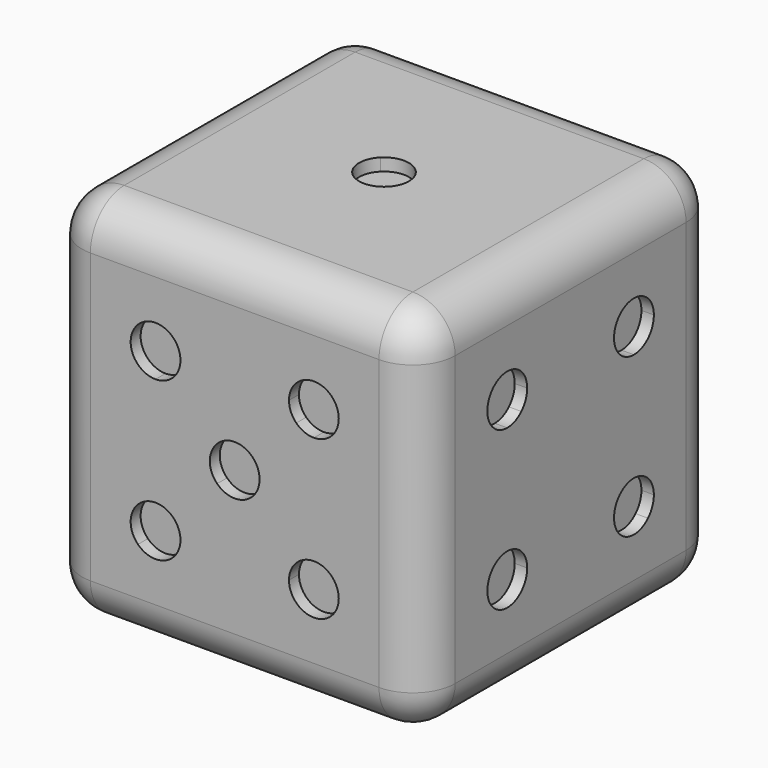
from build123d import *

# Parameters (mm, degrees)
F0_W      = 15
F0_H      = 15
F1_DEPTH  = 15
F2_R      = 1.7
F4_R      = 1
F9_DEPTH  = 0.5
F10_DEPTH = 0.5
F11_DEPTH = 0.5
F12_DEPTH = 0.5
F13_DEPTH = 0.5
F14_DEPTH = 0.5


with BuildPart() as f1:
    # F0 (on Front) → F1 (new body)
    with BuildSketch(Plane.XZ):
        Rectangle(F0_W, F0_H)
    extrude(amount=F1_DEPTH)

    # F2
    f2_edges = [f1.edges().sort_by_distance(p)[0] for p in [
        (-7.5, -7.5, -7.5),
        (0, 0, -7.5),
        (-7.5, 0, 0),
        (0, -15, -7.5),
        (7.5, -7.5, -7.5),
        (7.5, -15, 0),
        (-7.5, -15, 0),
        (7.5, -7.5, 7.5),
        (-7.5, -7.5, 7.5),
        (0, 0, 7.5),
        (0, -15, 7.5),
        (7.5, 0, 0),
    ]]
    fillet(f2_edges, radius=F2_R)

    # F4 (on face) → F9 (cut)
    with BuildSketch(Plane(origin=(0, 0, -7.5), x_dir=(1, 0, 0), z_dir=(0, 0, -1))):
        with Locations((-3.1819805153, 4.3180194847)):
            Circle(F4_R)
        with Locations((0, 4.3180194847)):
            Circle(F4_R)
        with Locations((3.1819805153, 4.3180194847)):
            Circle(F4_R)
        with Locations((3.1819805153, 10.6819805153)):
            Circle(F4_R)
        with Locations((-3.1819805153, 10.6819805153)):
            Circle(F4_R)
        with Locations((0, 10.6819805153)):
            Circle(F4_R)
    extrude(amount=-F9_DEPTH, mode=Mode.SUBTRACT)

    # F5 (on face) → F10 (cut)
    with BuildSketch(Plane.XZ.offset(15)):
        with BuildLine():
            Line((-3.1819805153, -3.1819805153), (-3.8890872965, -3.8890872965))
            ThreePointArc((-3.8890872965, -3.8890872965), (-2.799297083, -4.1058600479), (-2.1819805153, -3.1819805153))
            Line((-2.1819805153, -3.1819805153), (-3.1819805153, -3.1819805153))
        make_face()
        with BuildLine():
            ThreePointArc((-3.1819805153, -2.1819805153), (-4.1058600479, -2.799297083), (-3.8890872965, -3.8890872965))
            Line((-3.8890872965, -3.8890872965), (-3.1819805153, -3.1819805153))
            Line((-3.1819805153, -3.1819805153), (-3.1819805153, -2.1819805153))
        make_face()
        with BuildLine():
            Line((-3.1819805153, -2.1819805153), (-3.1819805153, -3.1819805153))
            Line((-3.1819805153, -3.1819805153), (-2.4748737342, -2.4748737342))
            ThreePointArc((-2.4748737342, -2.4748737342), (-2.799297083, -2.2581009828), (-3.1819805153, -2.1819805153))
        make_face()
        with BuildLine():
            Line((-3.1819805153, -3.1819805153), (-2.1819805153, -3.1819805153))
            ThreePointArc((-2.1819805153, -3.1819805153), (-2.2581009828, -2.799297083), (-2.4748737342, -2.4748737342))
            Line((-2.4748737342, -2.4748737342), (-3.1819805153, -3.1819805153))
        make_face()
        with BuildLine():
            Line((-2.4748737342, 2.4748737342), (-3.1819805153, 3.1819805153))
            Line((-3.1819805153, 3.1819805153), (-3.1819805153, 2.1819805153))
            ThreePointArc((-3.1819805153, 2.1819805153), (-2.799297083, 2.2581009828), (-2.4748737342, 2.4748737342))
        make_face()
        with BuildLine():
            ThreePointArc((-2.1819805153, 3.1819805153), (-2.799297083, 4.1058600479), (-3.8890872965, 3.8890872965))
            Line((-3.8890872965, 3.8890872965), (-3.1819805153, 3.1819805153))
            Line((-3.1819805153, 3.1819805153), (-2.1819805153, 3.1819805153))
        make_face()
        with BuildLine():
            Line((-3.1819805153, 3.1819805153), (-3.8890872965, 3.8890872965))
            ThreePointArc((-3.8890872965, 3.8890872965), (-4.1058600479, 2.799297083), (-3.1819805153, 2.1819805153))
            Line((-3.1819805153, 2.1819805153), (-3.1819805153, 3.1819805153))
        make_face()
        with BuildLine():
            Line((-2.1819805153, 3.1819805153), (-3.1819805153, 3.1819805153))
            Line((-3.1819805153, 3.1819805153), (-2.4748737342, 2.4748737342))
            ThreePointArc((-2.4748737342, 2.4748737342), (-2.2581009828, 2.799297083), (-2.1819805153, 3.1819805153))
        make_face()
        with BuildLine():
            Line((3.1819805153, 3.1819805153), (3.8890872965, 3.8890872965))
            ThreePointArc((3.8890872965, 3.8890872965), (2.799297083, 4.1058600479), (2.1819805153, 3.1819805153))
            Line((2.1819805153, 3.1819805153), (3.1819805153, 3.1819805153))
        make_face()
        with BuildLine():
            ThreePointArc((4.1819805153, 3.1819805153), (4.1058600479, 3.5646639477), (3.8890872965, 3.8890872965))
            Line((3.8890872965, 3.8890872965), (3.1819805153, 3.1819805153))
            Line((3.1819805153, 3.1819805153), (3.1819805153, 2.1819805153))
            ThreePointArc((3.1819805153, 2.1819805153), (3.8890872965, 2.4748737342), (4.1819805153, 3.1819805153))
        make_face()
        with BuildLine():
            Line((3.1819805153, 2.1819805153), (3.1819805153, 3.1819805153))
            Line((3.1819805153, 3.1819805153), (2.4748737342, 2.4748737342))
            ThreePointArc((2.4748737342, 2.4748737342), (2.799297083, 2.2581009828), (3.1819805153, 2.1819805153))
        make_face()
        with BuildLine():
            Line((2.4748737342, 2.4748737342), (3.1819805153, 3.1819805153))
            Line((3.1819805153, 3.1819805153), (2.1819805153, 3.1819805153))
            ThreePointArc((2.1819805153, 3.1819805153), (2.2581009828, 2.799297083), (2.4748737342, 2.4748737342))
        make_face()
        with BuildLine():
            Line((-0.7071067812, -0.7071067812), (0, 0))
            Line((0, 0), (-0.7071067812, 0.7071067812))
            ThreePointArc((-0.7071067812, 0.7071067812), (-1, 0), (-0.7071067812, -0.7071067812))
        make_face()
        with BuildLine():
            ThreePointArc((-0.7071067812, -0.7071067812), (0, -1), (0.7071067812, -0.7071067812))
            Line((0.7071067812, -0.7071067812), (0, 0))
            Line((0, 0), (-0.7071067812, -0.7071067812))
        make_face()
        with BuildLine():
            Line((0, 0), (0.7071067812, -0.7071067812))
            ThreePointArc((0.7071067812, -0.7071067812), (0.9238795325, -0.3826834324), (1, 0))
            ThreePointArc((1, 0), (0.9238795325, 0.3826834324), (0.7071067812, 0.7071067812))
            Line((0.7071067812, 0.7071067812), (0, 0))
        make_face()
        with BuildLine():
            Line((-0.7071067812, 0.7071067812), (0, 0))
            Line((0, 0), (0.7071067812, 0.7071067812))
            ThreePointArc((0.7071067812, 0.7071067812), (0, 1), (-0.7071067812, 0.7071067812))
        make_face()
        with BuildLine():
            Line((2.4748737342, -2.4748737342), (3.1819805153, -3.1819805153))
            Line((3.1819805153, -3.1819805153), (3.1819805153, -2.1819805153))
            ThreePointArc((3.1819805153, -2.1819805153), (2.799297083, -2.2581009828), (2.4748737342, -2.4748737342))
        make_face()
        with BuildLine():
            Line((3.1819805153, -3.1819805153), (3.8890872965, -3.8890872965))
            ThreePointArc((3.8890872965, -3.8890872965), (4.1058600479, -3.5646639477), (4.1819805153, -3.1819805153))
            ThreePointArc((4.1819805153, -3.1819805153), (3.8890872965, -2.4748737342), (3.1819805153, -2.1819805153))
            Line((3.1819805153, -2.1819805153), (3.1819805153, -3.1819805153))
        make_face()
        with BuildLine():
            ThreePointArc((2.1819805153, -3.1819805153), (2.799297083, -4.1058600479), (3.8890872965, -3.8890872965))
            Line((3.8890872965, -3.8890872965), (3.1819805153, -3.1819805153))
            Line((3.1819805153, -3.1819805153), (2.1819805153, -3.1819805153))
        make_face()
        with BuildLine():
            Line((2.1819805153, -3.1819805153), (3.1819805153, -3.1819805153))
            Line((3.1819805153, -3.1819805153), (2.4748737342, -2.4748737342))
            ThreePointArc((2.4748737342, -2.4748737342), (2.2581009828, -2.799297083), (2.1819805153, -3.1819805153))
        make_face()
    extrude(amount=-F10_DEPTH, mode=Mode.SUBTRACT)

    # F8 (on face) → F11 (cut)
    with BuildSketch(Plane.YZ.offset(7.5)):
        with BuildLine():
            ThreePointArc((-10.6819805153, -2.1819805153), (-11.6058600479, -2.799297083), (-11.3890872965, -3.8890872965))
            Line((-11.3890872965, -3.8890872965), (-10.6819805153, -3.1819805153))
            Line((-10.6819805153, -3.1819805153), (-10.6819805153, -2.1819805153))
        make_face()
        with BuildLine():
            Line((-10.6819805153, -3.1819805153), (-11.3890872965, -3.8890872965))
            ThreePointArc((-11.3890872965, -3.8890872965), (-10.299297083, -4.1058600479), (-9.6819805153, -3.1819805153))
            Line((-9.6819805153, -3.1819805153), (-10.6819805153, -3.1819805153))
        make_face()
        with BuildLine():
            Line((-9.9748737342, -2.4748737342), (-10.6819805153, -3.1819805153))
            Line((-10.6819805153, -3.1819805153), (-9.6819805153, -3.1819805153))
            ThreePointArc((-9.6819805153, -3.1819805153), (-9.7581009828, -2.799297083), (-9.9748737342, -2.4748737342))
        make_face()
        with BuildLine():
            Line((-10.6819805153, -2.1819805153), (-10.6819805153, -3.1819805153))
            Line((-10.6819805153, -3.1819805153), (-9.9748737342, -2.4748737342))
            ThreePointArc((-9.9748737342, -2.4748737342), (-10.299297083, -2.2581009828), (-10.6819805153, -2.1819805153))
        make_face()
        with BuildLine():
            Line((-10.6819805153, 3.1819805153), (-10.6819805153, 2.1819805153))
            ThreePointArc((-10.6819805153, 2.1819805153), (-10.299297083, 2.2581009828), (-9.9748737342, 2.4748737342))
            Line((-9.9748737342, 2.4748737342), (-10.6819805153, 3.1819805153))
        make_face()
        with BuildLine():
            Line((-9.6819805153, 3.1819805153), (-10.6819805153, 3.1819805153))
            Line((-10.6819805153, 3.1819805153), (-9.9748737342, 2.4748737342))
            ThreePointArc((-9.9748737342, 2.4748737342), (-9.7581009828, 2.799297083), (-9.6819805153, 3.1819805153))
        make_face()
        with BuildLine():
            ThreePointArc((-9.6819805153, 3.1819805153), (-10.299297083, 4.1058600479), (-11.3890872965, 3.8890872965))
            Line((-11.3890872965, 3.8890872965), (-10.6819805153, 3.1819805153))
            Line((-10.6819805153, 3.1819805153), (-9.6819805153, 3.1819805153))
        make_face()
        with BuildLine():
            Line((-10.6819805153, 3.1819805153), (-11.3890872965, 3.8890872965))
            ThreePointArc((-11.3890872965, 3.8890872965), (-11.6058600479, 2.799297083), (-10.6819805153, 2.1819805153))
            Line((-10.6819805153, 2.1819805153), (-10.6819805153, 3.1819805153))
        make_face()
        with BuildLine():
            ThreePointArc((-3.3180194847, 3.1819805153), (-3.3941399521, 3.5646639477), (-3.6109127035, 3.8890872965))
            Line((-3.6109127035, 3.8890872965), (-4.3180194847, 3.1819805153))
            Line((-4.3180194847, 3.1819805153), (-4.3180194847, 2.1819805153))
            ThreePointArc((-4.3180194847, 2.1819805153), (-3.6109127035, 2.4748737342), (-3.3180194847, 3.1819805153))
        make_face()
        with BuildLine():
            ThreePointArc((-5.3180194847, -3.1819805153), (-4.700702917, -4.1058600479), (-3.6109127035, -3.8890872965))
            Line((-3.6109127035, -3.8890872965), (-4.3180194847, -3.1819805153))
            Line((-4.3180194847, -3.1819805153), (-5.3180194847, -3.1819805153))
        make_face()
        with BuildLine():
            Line((-4.3180194847, -3.1819805153), (-3.6109127035, -3.8890872965))
            ThreePointArc((-3.6109127035, -3.8890872965), (-3.3941399521, -3.5646639477), (-3.3180194847, -3.1819805153))
            ThreePointArc((-3.3180194847, -3.1819805153), (-3.6109127035, -2.4748737342), (-4.3180194847, -2.1819805153))
            Line((-4.3180194847, -2.1819805153), (-4.3180194847, -3.1819805153))
        make_face()
        with BuildLine():
            Line((-5.0251262658, -2.4748737342), (-4.3180194847, -3.1819805153))
            Line((-4.3180194847, -3.1819805153), (-4.3180194847, -2.1819805153))
            ThreePointArc((-4.3180194847, -2.1819805153), (-4.700702917, -2.2581009828), (-5.0251262658, -2.4748737342))
        make_face()
        with BuildLine():
            ThreePointArc((-5.0251262658, -2.4748737342), (-5.2418990172, -2.799297083), (-5.3180194847, -3.1819805153))
            Line((-5.3180194847, -3.1819805153), (-4.3180194847, -3.1819805153))
            Line((-4.3180194847, -3.1819805153), (-5.0251262658, -2.4748737342))
        make_face()
        with BuildLine():
            Line((-4.3180194847, 2.1819805153), (-4.3180194847, 3.1819805153))
            Line((-4.3180194847, 3.1819805153), (-5.0251262658, 2.4748737342))
            ThreePointArc((-5.0251262658, 2.4748737342), (-4.700702917, 2.2581009828), (-4.3180194847, 2.1819805153))
        make_face()
        with BuildLine():
            Line((-5.0251262658, 2.4748737342), (-4.3180194847, 3.1819805153))
            Line((-4.3180194847, 3.1819805153), (-5.3180194847, 3.1819805153))
            ThreePointArc((-5.3180194847, 3.1819805153), (-5.2418990172, 2.799297083), (-5.0251262658, 2.4748737342))
        make_face()
        with BuildLine():
            Line((-4.3180194847, 3.1819805153), (-3.6109127035, 3.8890872965))
            ThreePointArc((-3.6109127035, 3.8890872965), (-4.700702917, 4.1058600479), (-5.3180194847, 3.1819805153))
            Line((-5.3180194847, 3.1819805153), (-4.3180194847, 3.1819805153))
        make_face()
    extrude(amount=-F11_DEPTH, mode=Mode.SUBTRACT)

    # F3 (on face) → F12 (cut)
    with BuildSketch(Plane.XY.offset(7.5)):
        with BuildLine():
            ThreePointArc((-0.7071067812, -8.2071067812), (0, -8.5), (0.7071067812, -8.2071067812))
            Line((0.7071067812, -8.2071067812), (0, -7.5))
            Line((0, -7.5), (-0.7071067812, -8.2071067812))
        make_face()
        with BuildLine():
            Line((0, -7.5), (0.7071067812, -8.2071067812))
            ThreePointArc((0.7071067812, -8.2071067812), (0.9238795325, -7.8826834324), (1, -7.5))
            ThreePointArc((1, -7.5), (0.9238795325, -7.1173165676), (0.7071067812, -6.7928932188))
            Line((0.7071067812, -6.7928932188), (0, -7.5))
        make_face()
        with BuildLine():
            Line((-0.7071067812, -6.7928932188), (0, -7.5))
            Line((0, -7.5), (0.7071067812, -6.7928932188))
            ThreePointArc((0.7071067812, -6.7928932188), (0, -6.5), (-0.7071067812, -6.7928932188))
        make_face()
        with BuildLine():
            Line((-0.7071067812, -8.2071067812), (0, -7.5))
            Line((0, -7.5), (-0.7071067812, -6.7928932188))
            ThreePointArc((-0.7071067812, -6.7928932188), (-1, -7.5), (-0.7071067812, -8.2071067812))
        make_face()
    extrude(amount=-F12_DEPTH, mode=Mode.SUBTRACT)

    # F7 (on face) → F13 (cut)
    with BuildSketch(Plane(origin=(-7.5, 0, 0), x_dir=(0, -1, 0), z_dir=(-1, 0, 0))):
        with BuildLine():
            Line((4.3180194847, -3.1819805153), (3.6109127035, -3.8890872965))
            ThreePointArc((3.6109127035, -3.8890872965), (4.700702917, -4.1058600479), (5.3180194847, -3.1819805153))
            Line((5.3180194847, -3.1819805153), (4.3180194847, -3.1819805153))
        make_face()
        with BuildLine():
            ThreePointArc((4.3180194847, -2.1819805153), (3.3941399521, -2.799297083), (3.6109127035, -3.8890872965))
            Line((3.6109127035, -3.8890872965), (4.3180194847, -3.1819805153))
            Line((4.3180194847, -3.1819805153), (4.3180194847, -2.1819805153))
        make_face()
        with BuildLine():
            Line((4.3180194847, -2.1819805153), (4.3180194847, -3.1819805153))
            Line((4.3180194847, -3.1819805153), (5.0251262658, -2.4748737342))
            ThreePointArc((5.0251262658, -2.4748737342), (4.700702917, -2.2581009828), (4.3180194847, -2.1819805153))
        make_face()
        with BuildLine():
            Line((5.0251262658, -2.4748737342), (4.3180194847, -3.1819805153))
            Line((4.3180194847, -3.1819805153), (5.3180194847, -3.1819805153))
            ThreePointArc((5.3180194847, -3.1819805153), (5.2418990172, -2.799297083), (5.0251262658, -2.4748737342))
        make_face()
        with BuildLine():
            ThreePointArc((6.7928932188, -0.7071067812), (7.5, -1), (8.2071067812, -0.7071067812))
            Line((8.2071067812, -0.7071067812), (7.5, 0))
            Line((7.5, 0), (6.7928932188, -0.7071067812))
        make_face()
        with BuildLine():
            Line((7.5, 0), (6.7928932188, 0.7071067812))
            ThreePointArc((6.7928932188, 0.7071067812), (6.5, 0), (6.7928932188, -0.7071067812))
            Line((6.7928932188, -0.7071067812), (7.5, 0))
        make_face()
        with BuildLine():
            ThreePointArc((8.2071067812, 0.7071067812), (7.5, 1), (6.7928932188, 0.7071067812))
            Line((6.7928932188, 0.7071067812), (7.5, 0))
            Line((7.5, 0), (8.2071067812, 0.7071067812))
        make_face()
        with BuildLine():
            Line((7.5, 0), (8.2071067812, -0.7071067812))
            ThreePointArc((8.2071067812, -0.7071067812), (8.4238795325, -0.3826834324), (8.5, 0))
            ThreePointArc((8.5, 0), (8.4238795325, 0.3826834324), (8.2071067812, 0.7071067812))
            Line((8.2071067812, 0.7071067812), (7.5, 0))
        make_face()
        with BuildLine():
            Line((10.6819805153, 3.1819805153), (9.6819805153, 3.1819805153))
            ThreePointArc((9.6819805153, 3.1819805153), (9.7581009828, 2.799297083), (9.9748737342, 2.4748737342))
            Line((9.9748737342, 2.4748737342), (10.6819805153, 3.1819805153))
        make_face()
        with BuildLine():
            ThreePointArc((9.9748737342, 2.4748737342), (10.299297083, 2.2581009828), (10.6819805153, 2.1819805153))
            Line((10.6819805153, 2.1819805153), (10.6819805153, 3.1819805153))
            Line((10.6819805153, 3.1819805153), (9.9748737342, 2.4748737342))
        make_face()
        with BuildLine():
            Line((10.6819805153, 3.1819805153), (10.6819805153, 2.1819805153))
            ThreePointArc((10.6819805153, 2.1819805153), (11.3890872965, 2.4748737342), (11.6819805153, 3.1819805153))
            ThreePointArc((11.6819805153, 3.1819805153), (11.6058600479, 3.5646639477), (11.3890872965, 3.8890872965))
            Line((11.3890872965, 3.8890872965), (10.6819805153, 3.1819805153))
        make_face()
        with BuildLine():
            Line((10.6819805153, 3.1819805153), (11.3890872965, 3.8890872965))
            ThreePointArc((11.3890872965, 3.8890872965), (10.299297083, 4.1058600479), (9.6819805153, 3.1819805153))
            Line((9.6819805153, 3.1819805153), (10.6819805153, 3.1819805153))
        make_face()
    extrude(amount=-F13_DEPTH, mode=Mode.SUBTRACT)

    # F6 (on face) → F14 (cut)
    with BuildSketch(Plane(origin=(0, 0, 0), x_dir=(-1, 0, 0), z_dir=(0, 1, 0))):
        with BuildLine():
            Line((3.1819805153, -3.1819805153), (2.1819805153, -3.1819805153))
            ThreePointArc((2.1819805153, -3.1819805153), (2.799297083, -4.1058600479), (3.8890872965, -3.8890872965))
            Line((3.8890872965, -3.8890872965), (3.1819805153, -3.1819805153))
        make_face()
        with BuildLine():
            Line((3.1819805153, -3.1819805153), (3.8890872965, -3.8890872965))
            ThreePointArc((3.8890872965, -3.8890872965), (4.1058600479, -3.5646639477), (4.1819805153, -3.1819805153))
            ThreePointArc((4.1819805153, -3.1819805153), (3.8890872965, -2.4748737342), (3.1819805153, -2.1819805153))
            Line((3.1819805153, -2.1819805153), (3.1819805153, -3.1819805153))
        make_face()
        with BuildLine():
            ThreePointArc((2.4748737342, -2.4748737342), (2.2581009828, -2.799297083), (2.1819805153, -3.1819805153))
            Line((2.1819805153, -3.1819805153), (3.1819805153, -3.1819805153))
            Line((3.1819805153, -3.1819805153), (2.4748737342, -2.4748737342))
        make_face()
        with BuildLine():
            Line((3.1819805153, -3.1819805153), (3.1819805153, -2.1819805153))
            ThreePointArc((3.1819805153, -2.1819805153), (2.799297083, -2.2581009828), (2.4748737342, -2.4748737342))
            Line((2.4748737342, -2.4748737342), (3.1819805153, -3.1819805153))
        make_face()
        with BuildLine():
            Line((-2.4748737342, 2.4748737342), (-3.1819805153, 3.1819805153))
            Line((-3.1819805153, 3.1819805153), (-3.1819805153, 2.1819805153))
            ThreePointArc((-3.1819805153, 2.1819805153), (-2.799297083, 2.2581009828), (-2.4748737342, 2.4748737342))
        make_face()
        with BuildLine():
            Line((-2.1819805153, 3.1819805153), (-3.1819805153, 3.1819805153))
            Line((-3.1819805153, 3.1819805153), (-2.4748737342, 2.4748737342))
            ThreePointArc((-2.4748737342, 2.4748737342), (-2.2581009828, 2.799297083), (-2.1819805153, 3.1819805153))
        make_face()
        with BuildLine():
            Line((-3.1819805153, 3.1819805153), (-3.8890872965, 3.8890872965))
            ThreePointArc((-3.8890872965, 3.8890872965), (-4.1058600479, 2.799297083), (-3.1819805153, 2.1819805153))
            Line((-3.1819805153, 2.1819805153), (-3.1819805153, 3.1819805153))
        make_face()
        with BuildLine():
            ThreePointArc((-2.1819805153, 3.1819805153), (-2.799297083, 4.1058600479), (-3.8890872965, 3.8890872965))
            Line((-3.8890872965, 3.8890872965), (-3.1819805153, 3.1819805153))
            Line((-3.1819805153, 3.1819805153), (-2.1819805153, 3.1819805153))
        make_face()
    extrude(amount=-F14_DEPTH, mode=Mode.SUBTRACT)


solid = f1.part
